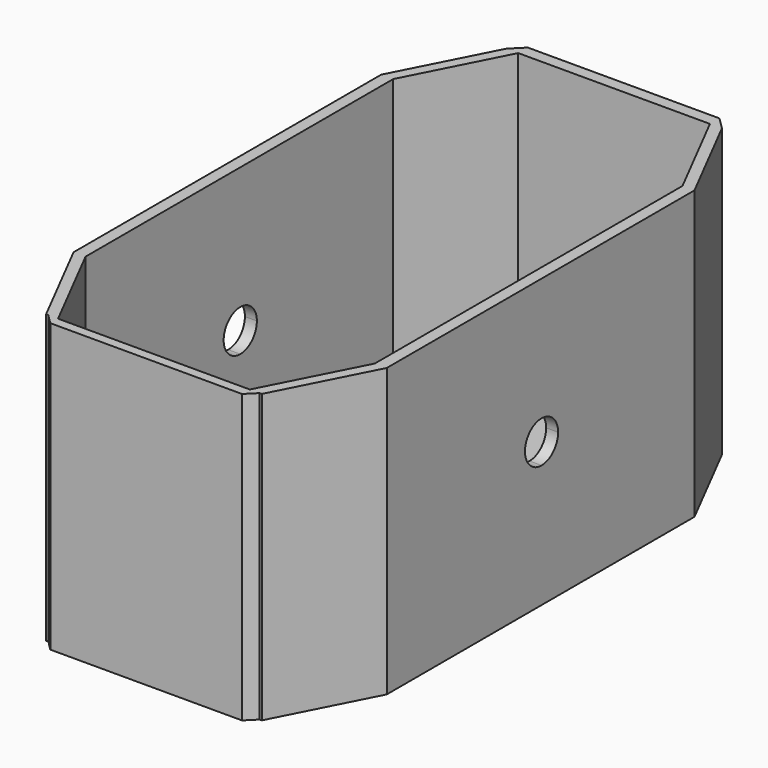
from build123d import *

# Parameters (mm, degrees)
F1_DEPTH = 3.175
F0_W     = 3.175
F0_H     = 101.9676364958
F2_DEPTH = 76.2
F4_DEPTH = 106.68


with BuildPart() as f1:
    # F0 (on Top) → F1 (new body)
    with BuildSketch(Plane.XY):
        Polygon((25.4167113453, 75.9493410587), (0, 75.9493410587), (-25.4167113453, 75.9493410587), (-38.3506603539, 50.683028996), (-38.3506603539, -51.2846074998), (-25.4167113453, -76.5509232879), (0, -76.5509232879), (25.4167113453, -76.5509232879), (38.3506603539, -51.2846074998), (38.3506603539, 50.683028996), align=None)
    extrude(amount=F1_DEPTH)

    # F0 (on Top) → F2 (join)
    with BuildSketch(Plane.XY):
        Polygon((-25.4167113453, 75.9493410587), (0, 75.9493410587), (25.4167113453, 75.9493410587), (25.4167113453, 79.1243410587), (-25.4167113453, 79.1243410587), align=None)
        Polygon((-38.3506603539, 50.683028996), (-25.4167113453, 75.9493410587), (-28.5917113453, 75.9493410587), (-41.5256603539, 50.683028996), (-41.5256603539, -51.2846074998), (-28.5917113453, -76.5509232879), (-27.9901291162, -76.5509232879), (-25.4167113453, -76.5509232879), (-38.3506603539, -51.2846074998), align=None)
        Polygon((-28.5917113453, 75.9493410587), (-25.4167113453, 75.9493410587), (-25.4167113453, 79.1243410587), align=None)
        Polygon((28.5917113453, 75.9493410587), (25.4167113453, 75.9493410587), (38.3506603539, 50.683028996), (41.5256603539, 50.683028996), align=None)
        Polygon((25.4167113453, 79.1243410587), (25.4167113453, 75.9493410587), (28.5917113453, 75.9493410587), align=None)
        with Locations((39.9381603539, -0.3007892519)):
            Rectangle(F0_W, F0_H)
        Polygon((41.5256603539, -51.2846074998), (38.3506603539, -51.2846074998), (25.4167113453, -76.5509232879), (27.9901291162, -76.5509232879), (28.5917113453, -76.5509232879), align=None)
        Polygon((-25.4167113453, -79.1243410587), (-25.4167113453, -76.5509232879), (-27.9901291162, -76.5509232879), align=None)
        Polygon((0, -76.5509232879), (-25.4167113453, -76.5509232879), (-25.4167113453, -79.1243410587), (25.4167113453, -79.1243410587), (25.4167113453, -76.5509232879), align=None)
        Polygon((27.9901291162, -76.5509232879), (25.4167113453, -76.5509232879), (25.4167113453, -79.1243410587), align=None)
    extrude(amount=F2_DEPTH)

    # F3 (on face) → F4 (cut)
    with BuildSketch(Plane.YZ.offset(41.5256603539)):
        with BuildLine():
            ThreePointArc((5.5000017, 38.1), (-3.8890884986, 41.9890884986), (0, 32.5999983))
            ThreePointArc((0, 32.5999983), (3.8890884986, 34.2109115014), (5.5000017, 38.1))
        make_face()
    extrude(amount=-F4_DEPTH, mode=Mode.SUBTRACT)


solid = f1.part
